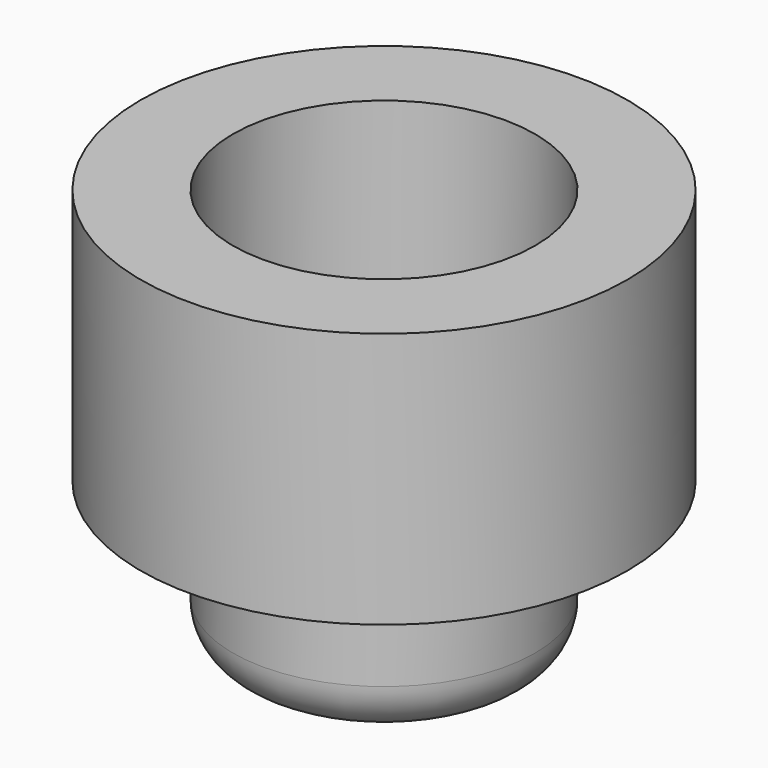
from build123d import *

# Parameters (mm, degrees)
F0_R          = 4.75
F0_R_2        = 2.95
F1_DEPTH      = 5
F2_DEPTH      = 3
F2_DEPTH_BACK = 1.5
F3_R          = 1


with BuildPart() as f1:
    # F0 (on Top) → F1 (new body)
    with BuildSketch(Plane.XY):
        Circle(F0_R)
        Circle(F0_R_2, mode=Mode.SUBTRACT)
    extrude(amount=F1_DEPTH)

    # F0 (on Top) → F2 (join, two sides)
    with BuildSketch(Plane.XY) as f2_sk:
        Circle(F0_R_2)
    extrude(amount=-F2_DEPTH)
    extrude(f2_sk.sketch, amount=F2_DEPTH_BACK)

    # F3
    f3_edges = [f1.edges().sort_by_distance(p)[0] for p in [
        (-2.95, 0, -3),
    ]]
    fillet(f3_edges, radius=F3_R)


solid = f1.part
